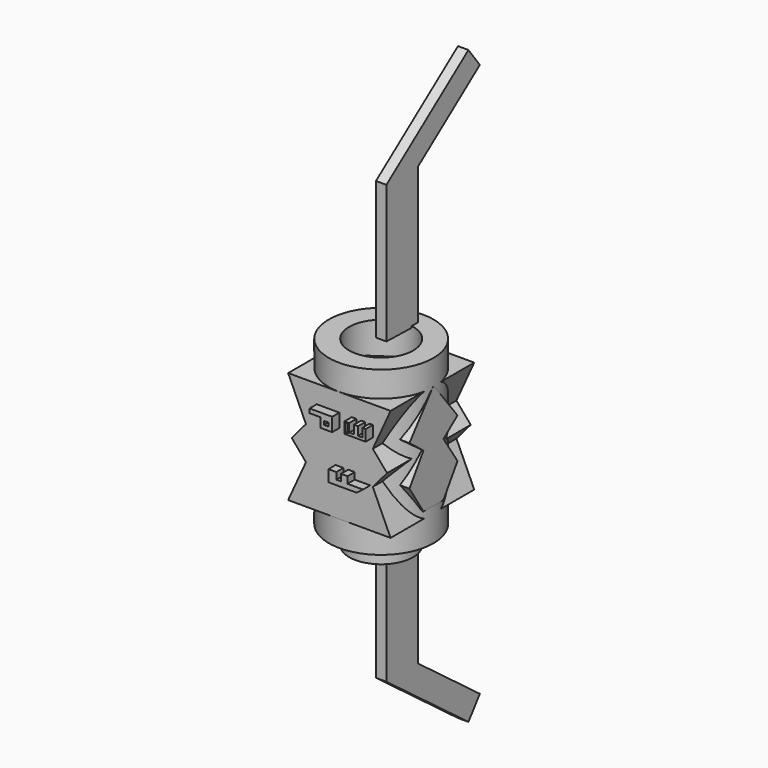
from build123d import *

# Parameters (mm, degrees)
F0_R      = 1.5320214601
F1_DEPTH  = 4.8
F0_R_2    = 2.5
F2_DEPTH  = 3.9
F4_DEPTH  = 2.5
F6_DEPTH  = 2.5
F7_DEPTH  = 3.2
F8_W      = 0.2057314705
F8_H      = 0.1714428654
F9_DEPTH  = 0.4
F11_DEPTH = 0.25
F12_DEPTH = 0.43


with BuildPart() as f1:
    # F0 (on Top) → F1 (new body, symmetric)
    with BuildSketch(Plane.XY):
        Circle(F0_R)
        Polygon((0.039557572, 1.1622756139), (1.1176137583, 0.3215414302), (0.6511657169, -0.9635520812), (-0.715171213, -0.9170493663), (-1.0931658343, 0.3967844035), align=None, mode=Mode.SUBTRACT)
    extrude(amount=F1_DEPTH, both=True)

    # F0 (on Top) → F2 (join, symmetric)
    with BuildSketch(Plane.XY):
        Circle(F0_R_2)
        Circle(F0_R, mode=Mode.SUBTRACT)
    extrude(amount=F2_DEPTH, both=True)

    # F3 (on Front) → F4 (join, symmetric)
    with BuildSketch(Plane.XZ):
        Polygon((2.4489383213, 2.6739891618), (0, 2.6739891618), (1.5983604826, 0.8004051051), align=None)
        Polygon((-1.5983604826, 0.8004051051), (0, 2.6739891618), (-2.4489383213, 2.6739891618), align=None)
        Polygon((0, 0), (0, 2.6739891618), (-1.5983604826, 0.8004051051), (-1.5983604826, 0), align=None)
        Polygon((1.5983604826, 0.8004051051), (0, 2.6739891618), (0, 0), (1.5983604826, 0), align=None)
        Polygon((2.2811886085, 0), (1.5983604826, 0.8004051051), (1.5983604826, 0), (1.5983604826, -0.8004051051), align=None)
        Polygon((-1.5983604826, 0), (-1.5983604826, 0.8004051051), (-2.2811886085, 0), (-1.5983604826, -0.8004051051), align=None)
        Polygon((0, -2.6739891618), (0, 0), (-1.5983604826, 0), (-1.5983604826, -0.8004051051), align=None)
        Polygon((1.5983604826, 0), (0, 0), (0, -2.6739891618), (1.5983604826, -0.8004051051), align=None)
        Polygon((1.5983604826, -0.8004051051), (0, -2.6739891618), (2.4489383213, -2.6739891618), align=None)
        Polygon((-2.4489383213, -2.6739891618), (0, -2.6739891618), (-1.5983604826, -0.8004051051), align=None)
    extrude(amount=F4_DEPTH, both=True)

    # F5 (on Right) → F6 (join, symmetric)
    with BuildSketch(Plane.YZ):
        Polygon((1.4358381741, 0.9031511727), (0, 2.7375903446), (-1.4358381741, 0.9031511727), (-0.5977854705, 0.2471969813), (-1.4358381741, -1.0170094902), (-0.5977854705, -2.3199757561), (0.5977854705, -2.3199757561), (1.4358381741, -1.0170094902), (0.5977854705, 0.2471969813), align=None)
    extrude(amount=F6_DEPTH, both=True)

    # F7 (cut): a face of the model
    f7_faces = [f1.faces().sort_by_distance(p)[0] for p in [
        (-1.4886893496, 0, 4.8),
    ]]
    extrude(f7_faces, amount=-F7_DEPTH, mode=Mode.SUBTRACT)

    # F8 (on face) → F9 (join)
    with BuildSketch(Plane.XZ.offset(2.5)):
        Polygon((-0.181210431, -0.4586814321), (-0.181210431, -1.0104251851), (1.1774745134, -1.0104251851), (1.4746332308, -0.7784541231), (1.1832588352, -0.7784541231), (0.7335068658, -0.7784541231), (0.7335068658, -0.4586814321), (0.4220934934, -0.4586814321), (0.4220934934, -0.7784541231), (0.1979402587, -0.7784541231), (0.1979402587, -0.4586814321), align=None)
        Polygon((0, 1.6032253625), (0, 1.8050573999), (-1.0815345449, 1.8050573999), (-1.0815345449, 1.6032253625), (-0.5499689287, 1.6032253625), (-0.5499689287, 1.1543665896), (0, 1.1543665896), align=None)
        with Locations((-0.2835566193, 1.4216544223)):
            Rectangle(F8_W, F8_H, mode=Mode.SUBTRACT)
        Polygon((0.5908022868, 1.8074008403), (0.5908022868, 1.2759278761), (1.2337132357, 1.2759278761), (1.6023155767, 1.2759278761), (1.6023155767, 1.7541147536), (1.5667511437, 1.7541147536), (1.529708039, 1.7541147536), (1.529708039, 1.3383656042), (1.1996804969, 1.3380937204), (1.0839564493, 1.3379983845), (1.0839564493, 1.8074008403), (1.0386969661, 1.8074008403), (1.0386969661, 1.4045101125), (0.8136780816, 1.4045101125), (0.8136780816, 1.8074008403), align=None)
        Polygon((0.7572061731, 1.7627113266), (0.7572061731, 1.3381995394), (0.6472741952, 1.3391206739), (0.6472741952, 1.7627113266), align=None, mode=Mode.SUBTRACT)
        Polygon((1.5667511437, 1.7541147536), (1.6023155767, 1.7541147536), (1.6023155767, 1.8074008403), (1.4394447207, 1.8074008403), (1.4394447207, 1.7541147536), (1.529708039, 1.7541147536), align=None)
        Polygon((1.529708039, 1.3383656042), (1.529708039, 1.7541147536), (1.4394447207, 1.7541147536), (1.4394447207, 1.4045101125), (1.2337132357, 1.4045101125), (1.2337132357, 1.8074008403), (1.1996804969, 1.8074008403), (1.1996804969, 1.3380937204), align=None)
        Polygon((1.1996804969, 1.8074008403), (1.0839564493, 1.8074008403), (1.0839564493, 1.3379983845), (1.1996804969, 1.3380937204), align=None)
    extrude(amount=F9_DEPTH)

    # F10 (on Right) → F11 (join, symmetric)
    with BuildSketch(Plane.YZ):
        Polygon((0, 10.4586472735), (0, 3.8638201077), (1.8880540525, 3.8153284695), (1.8880540525, 10.4586472735), (5.5842293836, 13.2371469554), (4.9025323242, 14.1439931467), align=None)
        Polygon((1.8880540525, -3.8153284695), (0, -3.8638201077), (0, -10.4586472735), (4.9025323242, -14.1439931467), (5.5842293836, -13.2371469554), (1.8880540525, -10.4586472735), align=None)
    extrude(amount=F11_DEPTH, both=True)

    # F8 (on face) → F12 (join)
    with BuildSketch(Plane.XZ.offset(2.5)):
        Polygon((-0.181210431, -0.4586814321), (-0.181210431, -1.0104251851), (1.1774745134, -1.0104251851), (1.4746332308, -0.7784541231), (1.1832588352, -0.7784541231), (0.7335068658, -0.7784541231), (0.7335068658, -0.4586814321), (0.4220934934, -0.4586814321), (0.4220934934, -0.7784541231), (0.1979402587, -0.7784541231), (0.1979402587, -0.4586814321), align=None)
        Polygon((0, 1.6032253625), (0, 1.8050573999), (-1.0815345449, 1.8050573999), (-1.0815345449, 1.6032253625), (-0.5499689287, 1.6032253625), (-0.5499689287, 1.1543665896), (0, 1.1543665896), align=None)
        with Locations((-0.2835566193, 1.4216544223)):
            Rectangle(F8_W, F8_H, mode=Mode.SUBTRACT)
        Polygon((0.5908022868, 1.8074008403), (0.5908022868, 1.2759278761), (1.2337132357, 1.2759278761), (1.6023155767, 1.2759278761), (1.6023155767, 1.7541147536), (1.5667511437, 1.7541147536), (1.529708039, 1.7541147536), (1.529708039, 1.3383656042), (1.1996804969, 1.3380937204), (1.0839564493, 1.3379983845), (1.0839564493, 1.8074008403), (1.0386969661, 1.8074008403), (1.0386969661, 1.4045101125), (0.8136780816, 1.4045101125), (0.8136780816, 1.8074008403), align=None)
        Polygon((0.7572061731, 1.7627113266), (0.7572061731, 1.3381995394), (0.6472741952, 1.3391206739), (0.6472741952, 1.7627113266), align=None, mode=Mode.SUBTRACT)
        Polygon((1.5667511437, 1.7541147536), (1.6023155767, 1.7541147536), (1.6023155767, 1.8074008403), (1.4394447207, 1.8074008403), (1.4394447207, 1.7541147536), (1.529708039, 1.7541147536), align=None)
        Polygon((1.529708039, 1.3383656042), (1.529708039, 1.7541147536), (1.4394447207, 1.7541147536), (1.4394447207, 1.4045101125), (1.2337132357, 1.4045101125), (1.2337132357, 1.8074008403), (1.1996804969, 1.8074008403), (1.1996804969, 1.3380937204), align=None)
        Polygon((1.1996804969, 1.8074008403), (1.0839564493, 1.8074008403), (1.0839564493, 1.3379983845), (1.1996804969, 1.3380937204), align=None)
    extrude(amount=F12_DEPTH)


solid = f1.part
